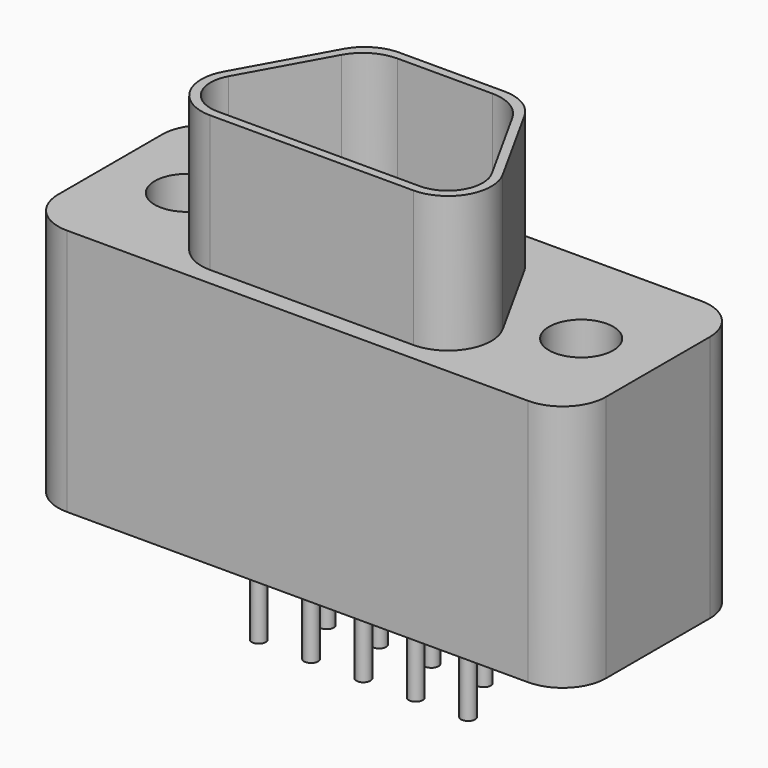
from build123d import *

# Parameters (mm, degrees)
F0_R     = 1.1684
F1_DEPTH = 4.5085
F3_DEPTH = 4.953
F5_DEPTH = 4.4069
F6_R     = 0.254
F7_DEPTH = 3.81


with BuildPart() as f1:
    # F0 (on Top) → F1 (new body, symmetric)
    with BuildSketch(Plane.XY):
        with BuildLine():
            Line((8.3947, 3.937), (-8.3947, 3.937))
            ThreePointArc((-8.3947, 3.937), (-9.508252, 3.475752), (-9.9695, 2.3622))
            Line((-9.9695, 2.3622), (-9.9695, -2.3622))
            ThreePointArc((-9.9695, -2.3622), (-9.508252, -3.475752), (-8.3947, -3.937))
            Line((-8.3947, -3.937), (8.3947, -3.937))
            ThreePointArc((8.3947, -3.937), (9.508252, -3.475752), (9.9695, -2.3622))
            Line((9.9695, -2.3622), (9.9695, 2.3622))
            ThreePointArc((9.9695, 2.3622), (9.508252, 3.475752), (8.3947, 3.937))
        make_face()
        with Locations((-7.1755, 0)):
            Circle(F0_R, mode=Mode.SUBTRACT)
        with Locations((7.1755, 0)):
            Circle(F0_R, mode=Mode.SUBTRACT)
    extrude(amount=F1_DEPTH, both=True)

    # F2 (on face) → F3 (join)
    with BuildSketch(Plane.XY.offset(4.5085)):
        with BuildLine():
            Line((-3.70192, -3.2893), (3.703378, -3.2893))
            ThreePointArc((3.703378, -3.2893), (5.060271, -2.513771), (5.080729, -0.951022))
            Line((5.080729, -0.951022), (3.292639, 2.274778))
            ThreePointArc((3.292639, 2.274778), (2.714559, 2.868194), (1.915288, 3.0861))
            Line((1.915288, 3.0861), (-1.91383, 3.0861))
            ThreePointArc((-1.91383, 3.0861), (-2.713101, 2.868194), (-3.291181, 2.274778))
            Line((-3.291181, 2.274778), (-5.079271, -0.951022))
            ThreePointArc((-5.079271, -0.951022), (-5.058814, -2.513771), (-3.70192, -3.2893))
        make_face()
    extrude(amount=F3_DEPTH)

    # F4 (on face) → F5 (cut)
    with BuildSketch(Plane.XY.offset(9.4615)):
        with BuildLine():
            Line((1.728266, 2.7686), (-1.726808, 2.7686))
            ThreePointArc((-1.726808, 2.7686), (-2.52608, 2.550694), (-3.104159, 1.957278))
            Line((-3.104159, 1.957278), (-4.791127, -1.086092))
            ThreePointArc((-4.791127, -1.086092), (-4.774629, -2.346374), (-3.68036, -2.9718))
            Line((-3.68036, -2.9718), (3.681817, -2.9718))
            ThreePointArc((3.681817, -2.9718), (4.776086, -2.346374), (4.792584, -1.086092))
            Line((4.792584, -1.086092), (3.105617, 1.957278))
            ThreePointArc((3.105617, 1.957278), (2.527537, 2.550694), (1.728266, 2.7686))
        make_face()
    extrude(amount=-F5_DEPTH, mode=Mode.SUBTRACT)

    # F6 (on face) → F7 (join)
    with BuildSketch(Plane(origin=(0, 0, -4.5085), x_dir=(1, 0, 0), z_dir=(0, 0, -1))):
        with Locations((-3.7973, 0.9525)):
            Circle(F6_R)
        with Locations((-1.8923, 0.9525)):
            Circle(F6_R)
        with Locations((0.0127, 0.9525)):
            Circle(F6_R)
        with Locations((1.9177, 0.9525)):
            Circle(F6_R)
        with Locations((3.8227, 0.9525)):
            Circle(F6_R)
        with Locations((-2.8448, -0.9525)):
            Circle(F6_R)
        with Locations((-0.9398, -0.9525)):
            Circle(F6_R)
        with Locations((0.9652, -0.9525)):
            Circle(F6_R)
        with Locations((2.8702, -0.9525)):
            Circle(F6_R)
    extrude(amount=F7_DEPTH)


solid = f1.part
